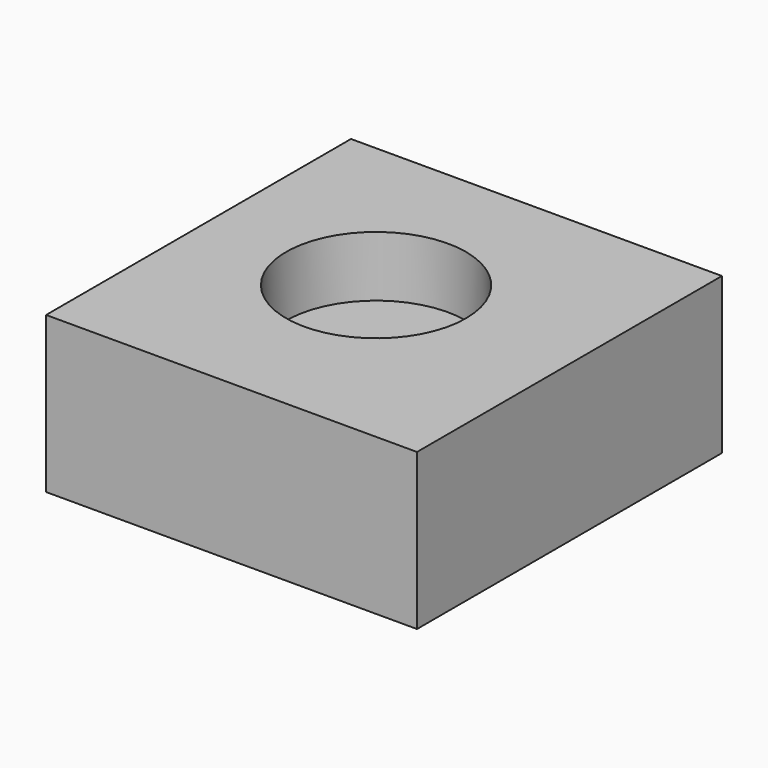
from build123d import *

# Parameters (mm, degrees)
F0_W     = 116.592176
F0_H     = 119.803167
F0_R     = 28.269712
F1_DEPTH = 49
F2_DEPTH = 19


with BuildPart() as f1:
    # F0 (on Top) → F1 (new body)
    with BuildSketch(Plane.XY):
        with Locations((4.958201, -3.083359)):
            Rectangle(F0_W, F0_H)
        Circle(F0_R, mode=Mode.SUBTRACT)
        Circle(F0_R)
    extrude(amount=-F1_DEPTH)

    # F0 (on Top) → F2 (cut)
    with BuildSketch(Plane.XY):
        Circle(F0_R)
    extrude(amount=-F2_DEPTH, mode=Mode.SUBTRACT)


solid = f1.part
